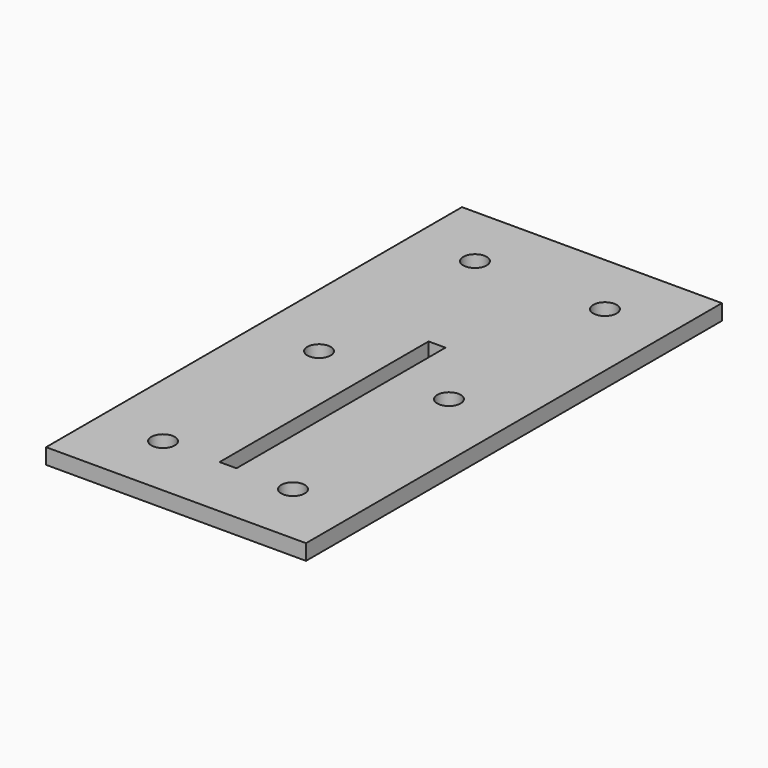
from build123d import *

# Parameters (mm, degrees)
F0_W     = 100
F0_H     = 200
F0_W_2   = 6.5
F0_H_2   = 100.5
F1_DEPTH = 6
F2_D     = 9


with BuildPart() as f1:
    # F0 (on Top) → F1 (new body)
    with BuildSketch(Plane.XY):
        Rectangle(F0_W, F0_H)
        with Locations((0, -24.75)):
            Rectangle(F0_W_2, F0_H_2, mode=Mode.SUBTRACT)
    extrude(amount=F1_DEPTH)

    # F2 (through all)
    with Locations(Plane(origin=(0, 0, 0), x_dir=(1, 0, 0), z_dir=(0, 0, -1))):
        with Locations((-25, 75), (25, 75), (-25, 0), (25, 0), (25, -75), (-25, -75)):
            Hole(F2_D / 2)


solid = f1.part
